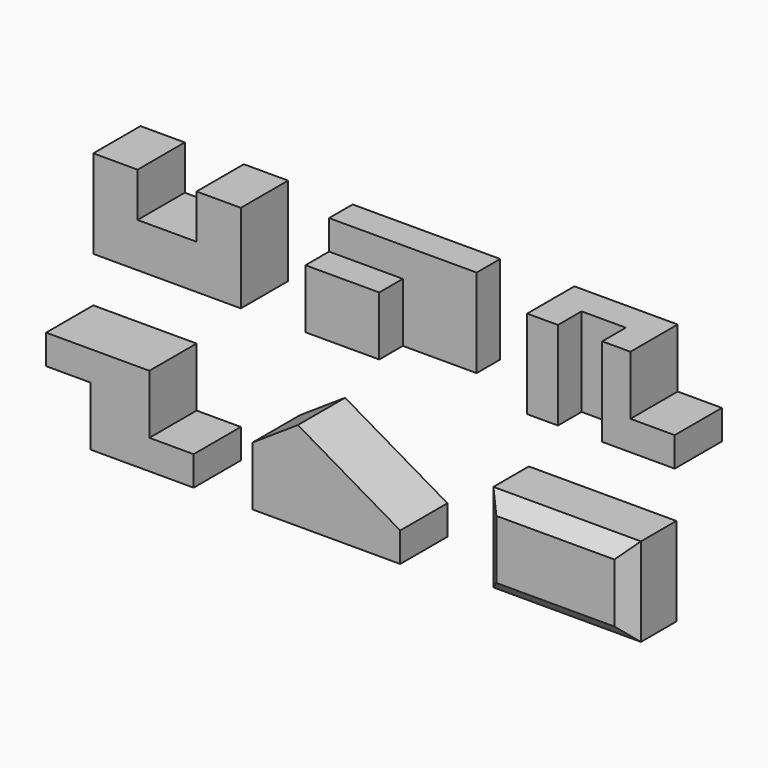
from build123d import *

# Parameters (mm, degrees)
F1_DEPTH  = 101.6
F2_W      = 254
F2_H      = 152.4
F3_DEPTH  = 101.6
F5_DEPTH  = 50.8
F7_DEPTH  = 101.6
F8_W      = 76.2
F8_H      = 50.8
F9_DEPTH  = 152.4
F11_DEPTH = 101.6
F13_DEPTH = 101.6
F14_W     = 254
F14_H     = 152.4
F15_DEPTH = 101.6
F16_SIZE  = 25.4


with BuildPart() as f1:
    # F0 (on Front) → F1 (new body)
    with BuildSketch(Plane.XZ):
        Polygon((0, 152.4), (0, 0), (254, 0), (254, 152.4), (177.8, 152.4), (177.8, 76.2), (76.2, 76.2), (76.2, 152.4), align=None)
    extrude(amount=-F1_DEPTH)


with BuildPart() as f3:
    # F2 (on Front) → F3 (new body)
    with BuildSketch(Plane.XZ):
        with Locations((492.222992, 76.2)):
            Rectangle(F2_W, F2_H)
    extrude(amount=-F3_DEPTH)

    # F4 (on face) → F5 (cut)
    with BuildSketch(Plane.XZ):
        Polygon((365.222992, 152.4), (365.222992, 101.6), (492.222992, 101.6), (492.222992, 0), (619.222992, 0), (619.222992, 152.4), align=None)
    extrude(amount=-F5_DEPTH, mode=Mode.SUBTRACT)


with BuildPart() as f7:
    # F6 (on Front) → F7 (new body)
    with BuildSketch(Plane.XZ):
        Polygon((746.84569, 152.4), (746.84569, 0), (1000.84569, 0), (1000.84569, 50.8), (924.64569, 50.8), (924.64569, 152.4), align=None)
    extrude(amount=-F7_DEPTH)

    # F8 (on face) → F9 (cut)
    with BuildSketch(Plane.XY.offset(152.4)):
        with Locations((837.959405, 25.4)):
            Rectangle(F8_W, F8_H)
    extrude(amount=-F9_DEPTH, mode=Mode.SUBTRACT)


with BuildPart() as f11:
    # F10 (on Front) → F11 (new body)
    with BuildSketch(Plane.XZ):
        Polygon((177.8, -78.023376), (0, -78.023376), (0, -128.823376), (76.2, -128.823376), (76.2, -230.423376), (254, -230.423376), (254, -179.623376), (177.8, -179.623376), align=None)
    extrude(amount=F11_DEPTH)


with BuildPart() as f13:
    # F12 (on Front) → F13 (new body)
    with BuildSketch(Plane.XZ):
        Polygon((355.6, -128.823376), (355.6, -230.423376), (609.6, -230.423376), (609.6, -179.623376), (433.490366, -77.047892), align=None)
    extrude(amount=F13_DEPTH)


with BuildPart() as f15:
    # F14 (on Front) → F15 (new body)
    with BuildSketch(Plane.XZ):
        with Locations((876.721174, -154.470949)):
            Rectangle(F14_W, F14_H)
    extrude(amount=F15_DEPTH)

    # F16
    f16_edges = [f15.edges().sort_by_distance(p)[0] for p in [
        (1003.721174, -101.6, -154.470949),
        (876.721174, -101.6, -78.270949),
        (749.721174, -101.6, -154.470949),
        (876.721174, -101.6, -230.670949),
    ]]
    chamfer(f16_edges, length=F16_SIZE)


solid = Compound([f1.part, f3.part, f7.part, f11.part, f13.part, f15.part])
